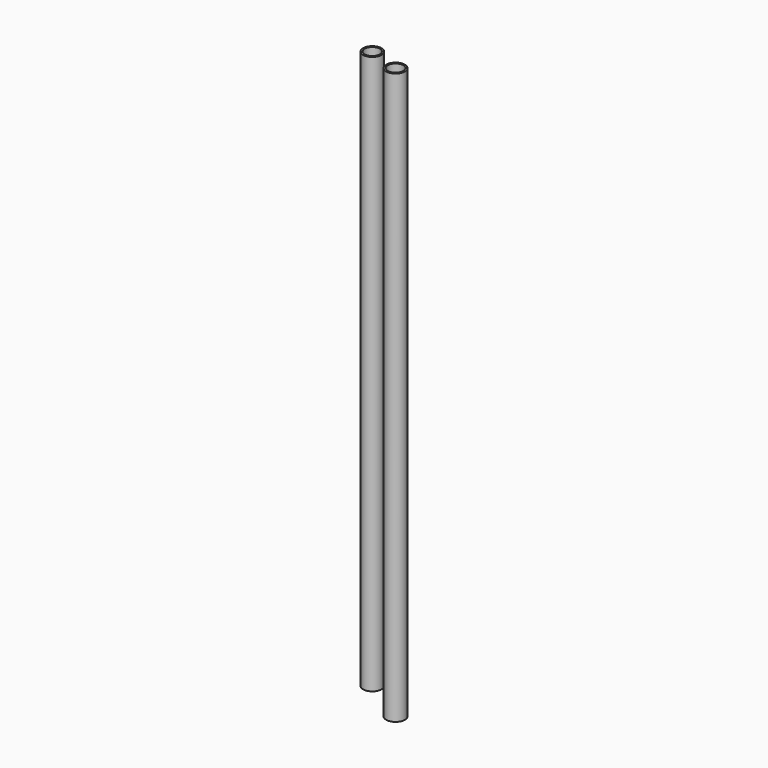
from build123d import *

# Parameters (mm, degrees)
F0_R     = 8.445656
F1_DEPTH = 257
F2_R     = 8.327026
F3_DEPTH = 251.5
F4_T     = -1.5
F4_2_T   = -1.5


with BuildPart() as f1:
    # F0 (on Top) → F1 (new body, symmetric)
    with BuildSketch(Plane.XY):
        Circle(F0_R)
    extrude(amount=F1_DEPTH, both=True)

    # F4#2
    f4_2_openings = [f1.faces().sort_by_distance(p)[0] for p in [
        (0, 0, 257),
    ]]
    offset(amount=F4_2_T, openings=f4_2_openings)


with BuildPart() as f3:
    # F2 (on Top) → F3 (new body, symmetric)
    with BuildSketch(Plane.XY):
        with Locations((-35.110887, 17.691532)):
            Circle(F2_R)
    extrude(amount=F3_DEPTH, both=True)

    # F4
    f4_openings = [f3.faces().sort_by_distance(p)[0] for p in [
        (-35.110887, 17.691532, 251.5),
    ]]
    offset(amount=F4_T, openings=f4_openings)


solid = Compound([f1.part, f3.part])
